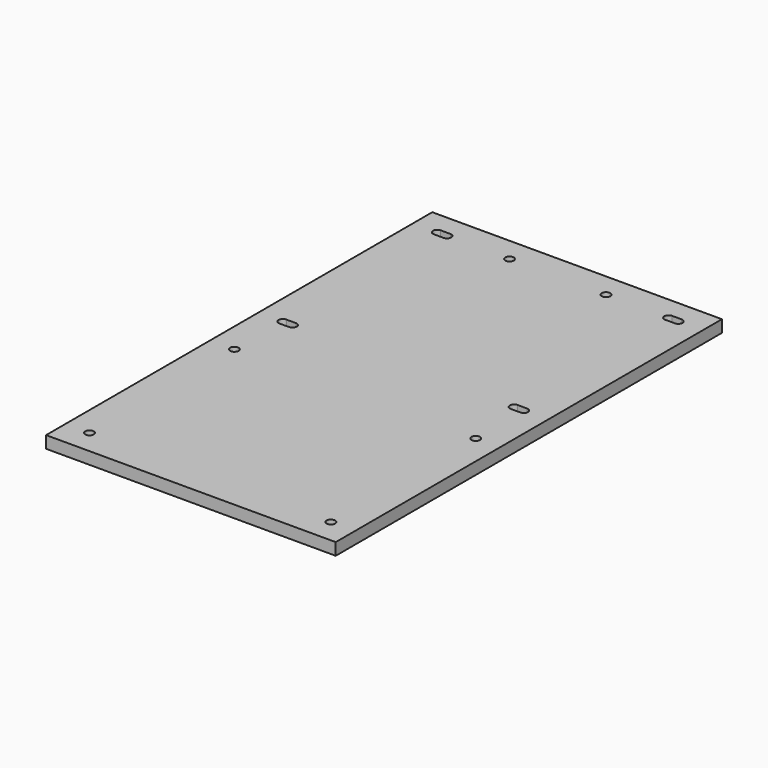
from build123d import *

# Parameters (mm, degrees)
F0_W     = 152.4
F0_H     = 254
F1_DEPTH = 6.35
F3_DEPTH = 25.4
F6_D     = 4.4958


with BuildPart() as f1:
    # F0 (on Top) → F1 (new body)
    with BuildSketch(Plane.XY):
        Rectangle(F0_W, F0_H)
    extrude(amount=F1_DEPTH)

    # F2 (on face) → F3 (cut)
    with BuildSketch(Plane.XY.offset(6.35)):
        with BuildLine():
            Line((-58.3057, 116.5479), (-63.3857, 116.5479))
            ThreePointArc((-63.3857, 116.5479), (-65.6336, 114.3), (-63.3857, 112.0521))
            Line((-63.3857, 112.0521), (-58.3057, 112.0521))
            ThreePointArc((-58.3057, 112.0521), (-56.0578, 114.3), (-58.3057, 116.5479))
        make_face()
        with BuildLine():
            Line((63.3857, 116.5479), (58.3057, 116.5479))
            ThreePointArc((58.3057, 116.5479), (56.0578, 114.3), (58.3057, 112.0521))
            Line((58.3057, 112.0521), (63.3857, 112.0521))
            ThreePointArc((63.3857, 112.0521), (65.6336, 114.3), (63.3857, 116.5479))
        make_face()
        with BuildLine():
            Line((-58.3057, 14.9479), (-63.3857, 14.9479))
            ThreePointArc((-63.3857, 14.9479), (-65.6336, 12.7), (-63.3857, 10.4521))
            Line((-63.3857, 10.4521), (-58.3057, 10.4521))
            ThreePointArc((-58.3057, 10.4521), (-56.0578, 12.7), (-58.3057, 14.9479))
        make_face()
        with BuildLine():
            Line((63.3857, 14.9479), (58.3057, 14.9479))
            ThreePointArc((58.3057, 14.9479), (56.0578, 12.7), (58.3057, 10.4521))
            Line((58.3057, 10.4521), (63.3857, 10.4521))
            ThreePointArc((63.3857, 10.4521), (65.6336, 12.7), (63.3857, 14.9479))
        make_face()
    extrude(amount=-F3_DEPTH, mode=Mode.SUBTRACT)

    # F6 (through all)
    with Locations(Plane.XY.offset(6.35)):
        with Locations((-63.5, -19.05), (-63.5, -114.3), (63.5, -114.3), (63.5, -19.05), (-25.4, 114.3), (25.4, 114.3)):
            Hole(F6_D / 2)


solid = f1.part
